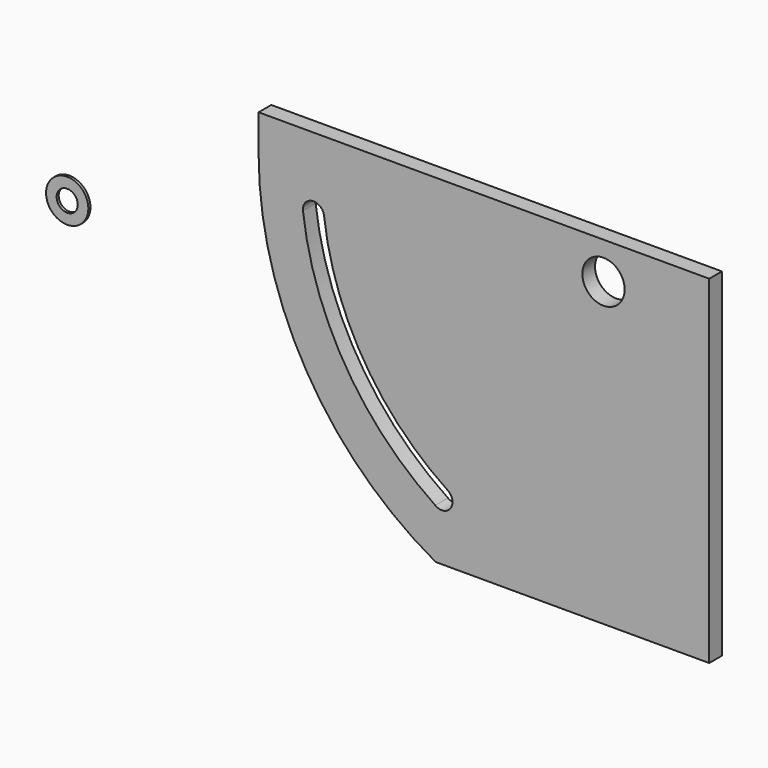
from build123d import *

# Parameters (mm, degrees)
F0_R     = 6.35
F1_DEPTH = 4.7625
F2_R     = 6.35
F2_R_2   = 3.175
F3_DEPTH = 0.7874


with BuildPart() as f1:
    # F0 (on Front) → F1 (new body)
    with BuildSketch(Plane.XZ):
        with BuildLine():
            Line((-2.65973, -43.647013), (79.469971, -43.647013))
            Line((79.469971, -43.647013), (79.469971, 57.952987))
            Line((79.469971, 57.952987), (-55.835829, 57.952987))
            Line((-55.835829, 57.952987), (-55.835829, 46.827787))
            ThreePointArc((-55.835829, 46.827787), (-41.557445, -5.644556), (-2.65973, -43.647013))
        make_face()
        with BuildLine():
            ThreePointArc((-2.785994, -28.69654), (-29.777461, -0.59504), (-42.515458, 36.228554))
            ThreePointArc((-42.515458, 36.228554), (-39.724181, 39.762845), (-36.18989, 36.971568))
            ThreePointArc((-36.18989, 36.971568), (-24.214698, 2.515675), (1.16875, -23.681545))
            Line((1.16875, -23.681545), (1.16201, -23.690093))
            ThreePointArc((1.16201, -23.690093), (1.69039, -28.160198), (-2.779715, -28.688578))
            Line((-2.779715, -28.688578), (-2.785994, -28.69654))
        make_face(mode=Mode.SUBTRACT)
        with Locations((47.719971, 46.827787)):
            Circle(F0_R, mode=Mode.SUBTRACT)
    extrude(amount=F1_DEPTH)


with BuildPart() as f3:
    # F2 (on Front) → F3 (new body)
    with BuildSketch(Plane.XZ):
        with Locations((-116.493374, 13.216081)):
            Circle(F2_R)
        with Locations((-116.493374, 13.216081)):
            Circle(F2_R_2, mode=Mode.SUBTRACT)
    extrude(amount=F3_DEPTH)


solid = Compound([f1.part, f3.part])
